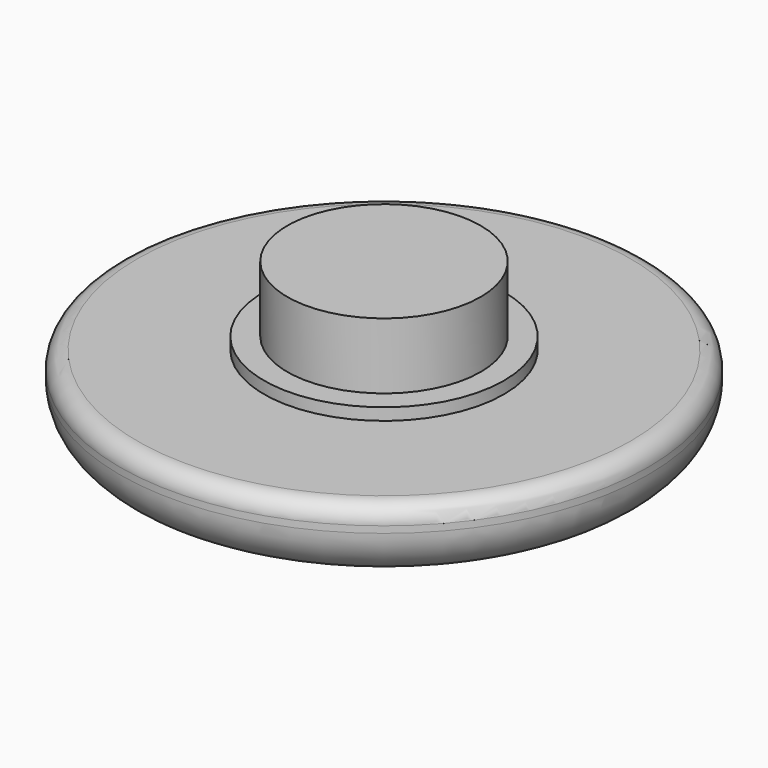
from build123d import *

# Parameters (mm, degrees)
F0_R     = 11
F1_DEPTH = 3
F2_R     = 2
F3_R     = 5
F3_R_2   = 4.025
F4_DEPTH = 0.5
F5_DEPTH = 3.25
F6_R     = 3.1762732241
F6_R_2   = 2.4567004545
F6_R_3   = 1.9037122254
F6_R_4   = 1.3077812171
F7_DEPTH = 2
F8_R     = 0.7242640687


with BuildPart() as f1:
    # F0 (on Top) → F1 (new body)
    with BuildSketch(Plane.XY):
        Circle(F0_R)
    extrude(amount=F1_DEPTH)

    # F2
    f2_edges = [f1.edges().sort_by_distance(p)[0] for p in [
        (-11, 0, 0),
    ]]
    fillet(f2_edges, radius=F2_R)

    # F3 (on face) → F4 (join)
    with BuildSketch(Plane.XY.offset(3)):
        Circle(F3_R)
        Circle(F3_R_2, mode=Mode.SUBTRACT)
    extrude(amount=F4_DEPTH)

    # F5 (add): a face of the model
    f5_faces = [f1.faces().sort_by_distance(p)[0] for p in [
        (0, 0, 3),
    ]]
    extrude(f5_faces, amount=F5_DEPTH)

    # F6 (on face) → F7 (cut)
    with BuildSketch(Plane(origin=(0, 0, 0), x_dir=(1, 0, 0), z_dir=(0, 0, -1))):
        with Locations((-5.3061908111, 1.2858043192)):
            Circle(F6_R)
        with Locations((-5.3061908111, 1.2858043192)):
            Circle(F6_R_2, mode=Mode.SUBTRACT)
        with BuildLine():
            ThreePointArc((0.9619368017, -0.7183409795), (-1.1922548582, 0.140941571), (1.1029175948, 0.4742456667))
            Line((1.1029175948, 0.4742456667), (1.555835095, 0.8067932675))
            ThreePointArc((1.555835095, 0.8067932675), (-1.7466329927, 0.1442615964), (1.4023820255, -1.0511245759))
            Line((1.4023820255, -1.0511245759), (0.9619368017, -0.7183409795))
        make_face()
        Polygon((2.5934469886, 1.7158896108), (1.797987935, 1.7044660048), (1.8175899449, 1.0339289438), (2.6010603178, 1.0339289438), (2.6010603178, -1.6414519632), (3.2636339311, -1.6414519632), (3.2636339311, 1.0350090452), (3.9116484113, 1.0350090452), (3.9116484113, 1.688883407), (3.2656819094, 1.688883407), (3.2656819094, 2.9203571675), (2.5934469886, 2.5919371012), align=None)
        with Locations((5.8113215491, 0)):
            Circle(F6_R_3)
        with Locations((5.8113215491, 0)):
            Circle(F6_R_4, mode=Mode.SUBTRACT)
        with BuildLine():
            Line((5.1257074847, 6.0719344417), (5.7329160736, 6.7912362658))
            ThreePointArc((5.7329160736, 6.7912362658), (0, 8.8874752728), (-5.7329160736, 6.7912362658))
            Line((-5.7329160736, 6.7912362658), (-5.1257074847, 6.0719344417))
            ThreePointArc((-5.1257074847, 6.0719344417), (0, 7.9461478141), (5.1257074847, 6.0719344417))
        make_face()
        with BuildLine():
            ThreePointArc((5.1257074847, -6.0719344417), (0, -7.9461478141), (-5.1257074847, -6.0719344417))
            Line((-5.1257074847, -6.0719344417), (-5.7329160736, -6.7912362658))
            ThreePointArc((-5.7329160736, -6.7912362658), (0, -8.8874752728), (5.7329160736, -6.7912362658))
            Line((5.7329160736, -6.7912362658), (5.1257074847, -6.0719344417))
        make_face()
    extrude(amount=-F7_DEPTH, mode=Mode.SUBTRACT)

    # F8
    f8_edges = [f1.edges().sort_by_distance(p)[0] for p in [
        (-11, 0, 3),
    ]]
    fillet(f8_edges, radius=F8_R)


solid = f1.part
